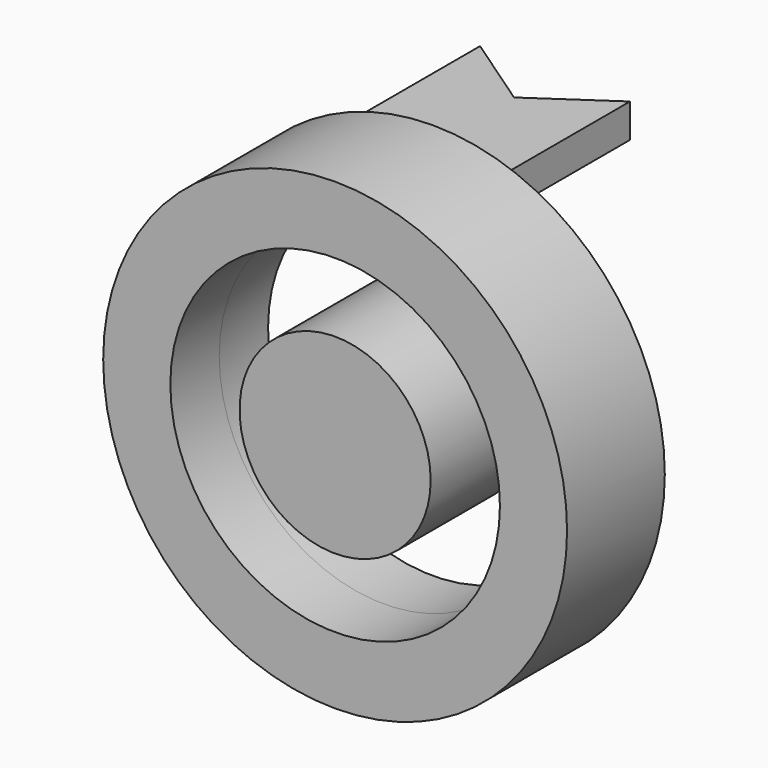
from build123d import *

# Parameters (mm, degrees)
F0_R          = 37.966897
F0_R_2        = 26.975796
F0_R_3        = 15.641275
F1_DEPTH      = 10
F1_DEPTH_BACK = 10
F2_W          = 24.54576
F2_H          = 5.535711
F3_DEPTH      = 25
F5_DEPTH      = 25


with BuildPart() as f1:
    # F0 (on Front) → F1 (new body, two sides)
    with BuildSketch(Plane.XZ) as f1_sk:
        Circle(F0_R)
        Circle(F0_R_2, mode=Mode.SUBTRACT)
        Circle(F0_R_3)
    extrude(amount=F1_DEPTH)
    extrude(f1_sk.sketch, amount=-F1_DEPTH_BACK)

    # F2 (on face) → F3 (join)
    with BuildSketch(Plane(origin=(0, 10, 0), x_dir=(-1, 0, 0), z_dir=(0, 1, 0))):
        with Locations((0, 32.445132)):
            Rectangle(F2_W, F2_H)
    extrude(amount=F3_DEPTH)

    # F4 (on face) → F5 (cut)
    with BuildSketch(Plane.XY.offset(35.212988)):
        Polygon((12.27288, 35), (-12.27288, 35), (0, 26.605694), align=None)
    extrude(amount=-F5_DEPTH, mode=Mode.SUBTRACT)


solid = f1.part
